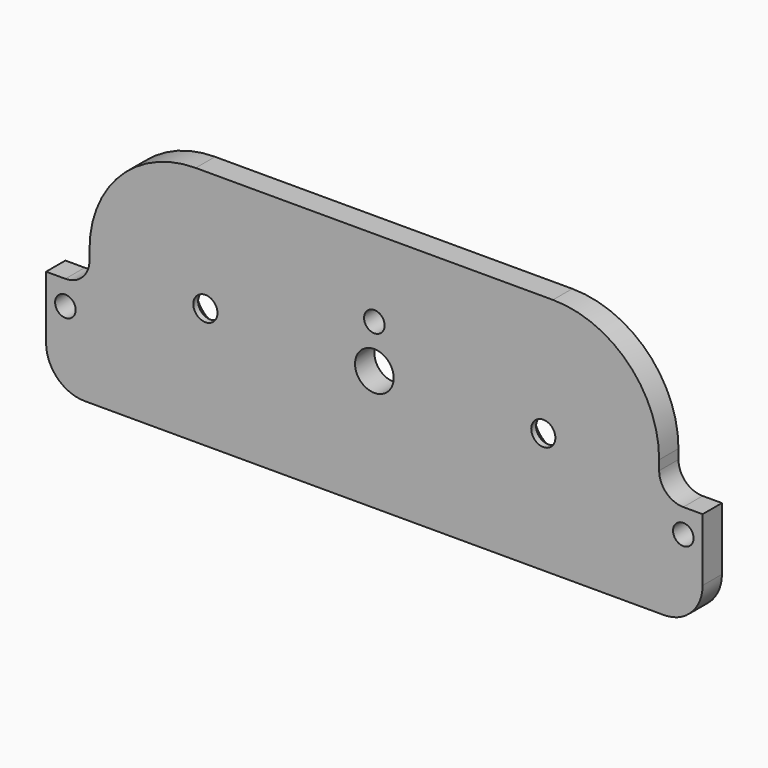
from build123d import *

# Parameters (mm, degrees)
F1_DEPTH       = 7.9375
F2_R           = 34.925
F3_R           = 12.7
F4_D           = 6.7564
F5_D           = 6.7564
F6_D           = 12.7
F7_R           = 7.9375
F8_D           = 7.9375
F8_CSINK_D     = 19.05
F8_CSINK_ANGLE = 86


with BuildPart() as f1:
    # F0 (on Front) → F1 (new body)
    with BuildSketch(Plane.XZ):
        Polygon((-107.95, 0), (-107.95, -33.3375), (107.95, -33.3375), (107.95, 0), (93.6625, 0), (93.6625, 46.0375), (-93.6625, 46.0375), (-93.6625, 0), align=None)
    extrude(amount=F1_DEPTH)

    # F2
    f2_edges = [f1.edges().sort_by_distance(p)[0] for p in [
        (-93.6625, -3.96875, 46.0375),
        (93.6625, -3.96875, 46.0375),
    ]]
    fillet(f2_edges, radius=F2_R)

    # F3
    f3_edges = [f1.edges().sort_by_distance(p)[0] for p in [
        (-107.95, -3.96875, -33.3375),
        (107.95, -3.96875, -33.3375),
    ]]
    fillet(f3_edges, radius=F3_R)

    # F4 (through all)
    with Locations(Plane(origin=(0, 0, 0), x_dir=(1, 0, 0), z_dir=(0, 1, 0))):
        with Locations((-101.6, 7.9375), (101.6, 7.9375)):
            Hole(F4_D / 2)

    # F5 (through all)
    with Locations(Plane(origin=(0, 0, 0), x_dir=(1, 0, 0), z_dir=(0, 1, 0))):
        with Locations((0, -20.6375)):
            Hole(F5_D / 2)

    # F6 (through all)
    with Locations(Plane(origin=(0, 0, 0), x_dir=(1, 0, 0), z_dir=(0, 1, 0))):
        with Locations((0, -6.35)):
            Hole(F6_D / 2)

    # F7
    f7_edges = [f1.edges().sort_by_distance(p)[0] for p in [
        (-93.6625, -3.96875, 0),
        (93.6625, -3.96875, 0),
    ]]
    fillet(f7_edges, radius=F7_R)

    # F8 (through all)
    with Locations(Plane(origin=(0, 0, 0), x_dir=(1, 0, 0), z_dir=(0, 1, 0))):
        with Locations((-55.5625, -6.3627), (55.5625, -6.3627)):
            CounterSinkHole(F8_D / 2, F8_CSINK_D / 2, counter_sink_angle=F8_CSINK_ANGLE)


solid = f1.part
